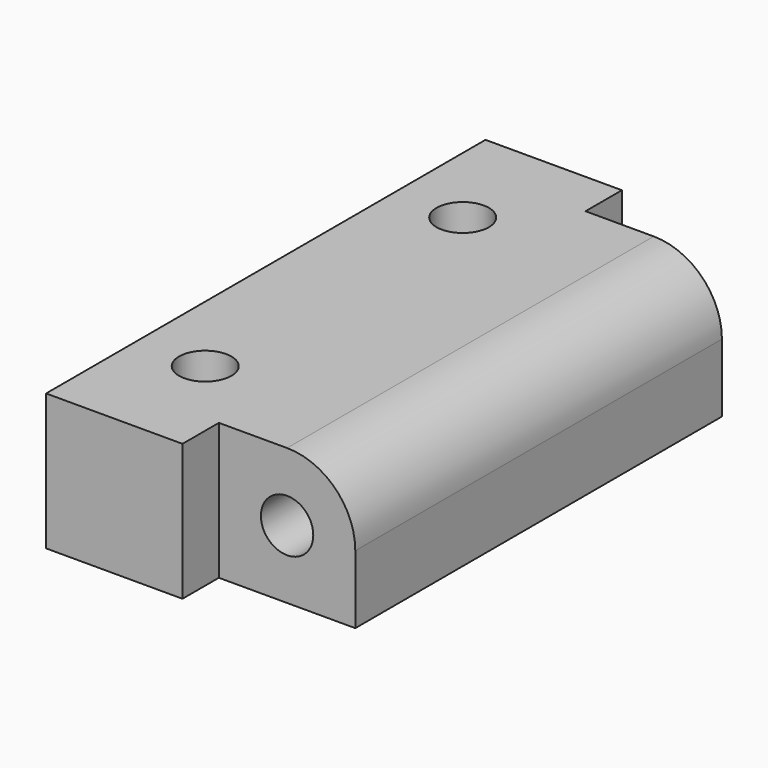
from build123d import *

# Parameters (mm, degrees)
F0_W     = 19.05
F0_H     = 32
F0_R     = 1.8288
F1_DEPTH = 9.525
F2_R     = 1.8288
F3_DEPTH = 32
F4_R     = 4.7625
F5_W     = 9.525
F5_H     = 3.175
F6_DEPTH = 9.525


with BuildPart() as f1:
    # F0 (on Top) → F1 (new body)
    with BuildSketch(Plane.XY):
        with Locations((-9.525, 16)):
            Rectangle(F0_W, F0_H)
        with Locations((-14.2875, 4.7625)):
            Circle(F0_R, mode=Mode.SUBTRACT)
        with Locations((-14.2875, 27.2375)):
            Circle(F0_R, mode=Mode.SUBTRACT)
    extrude(amount=F1_DEPTH)

    # F2 (on face) → F3 (cut, through all)
    with BuildSketch(Plane.XZ):
        with Locations((-4.7625, 4.7625)):
            Circle(F2_R)
    extrude(amount=-F3_DEPTH, mode=Mode.SUBTRACT)

    # F4
    f4_edges = [f1.edges().sort_by_distance(p)[0] for p in [
        (0, 16, 9.525),
    ]]
    fillet(f4_edges, radius=F4_R)

    # F5 (on face) → F6 (join, through all)
    with BuildSketch(Plane.XY.offset(9.525)):
        with Locations((-14.2875, 33.5875)):
            Rectangle(F5_W, F5_H)
        with Locations((-14.2875, -1.5875)):
            Rectangle(F5_W, F5_H)
    extrude(amount=-F6_DEPTH)


solid = f1.part
